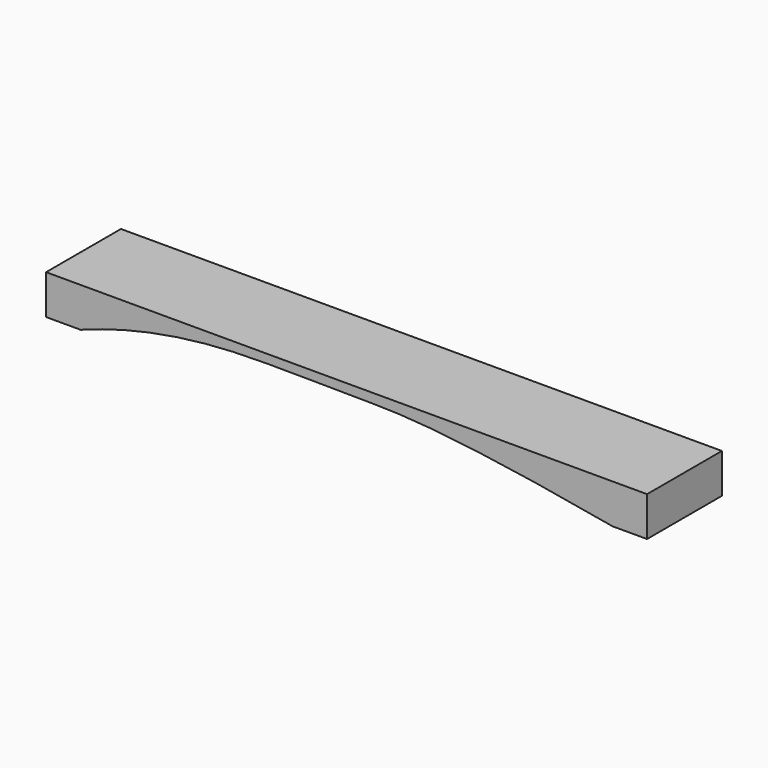
from build123d import *

# Parameters (mm, degrees)
BAR_DEPTH = 68.58


with BuildPart() as part:
    # Sketch → Bar (new body)
    with BuildSketch(Plane.XZ):
        with BuildLine():
            Line((25.29, 0), (0, 0))
            Line((0, 0), (0, 28.96))
            Line((0, 28.96), (440.4, 28.96))
            Line((440.4, 28.96), (440.4, 0))
            Line((440.4, 0), (415.11, 0))
            add(Edge.make_bspline(
                [(415.11, 0), (296.03, 21.75), (222.34, 21.99), (191.75, 22.68), (86.07, 22.85), (25.29, 0)],
                knots=[0, 0, 0, 0, 0.333333, 0.666667, 1, 1, 1, 1], degree=3))
        make_face()
    extrude(amount=BAR_DEPTH)


solid = part.part
